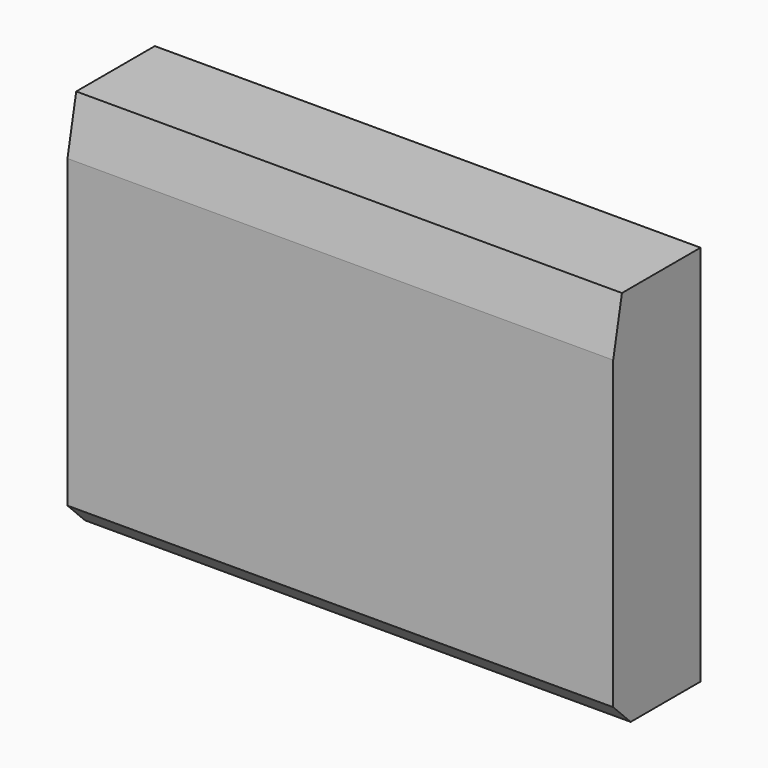
from build123d import *

# Parameters (mm, degrees)
BOX008_W        = 10
BOX008_H        = 2
BOX008_DEPTH    = 7
CHAMFER_SIZE2   = 0.2
CHAMFER_SIZE    = 1
CHAMFER002_SIZE = 0.4


with BuildPart() as part:
    # Box008 → Box008 (new body)
    with BuildSketch(Plane(origin=(0, 4.73, 4), x_dir=(1, 0, 0), z_dir=(0, 0, 1))):
        with Locations((5, 1)):
            Rectangle(BOX008_W, BOX008_H)
    extrude(amount=BOX008_DEPTH)

    # Chamfer
    chamfer_edges = [part.edges().sort_by_distance(p)[0] for p in [
        (5, 4.73, 11),
    ]]
    chamfer_side = part.faces().sort_by_distance((5, 4.73, 7.5))[0]
    chamfer(chamfer_edges, length=CHAMFER_SIZE, length2=CHAMFER_SIZE2, reference=chamfer_side)

    # Chamfer002
    chamfer002_edges = [part.edges().sort_by_distance(p)[0] for p in [
        (5, 4.73, 4),
    ]]
    chamfer(chamfer002_edges, length=CHAMFER002_SIZE)


solid = part.part
